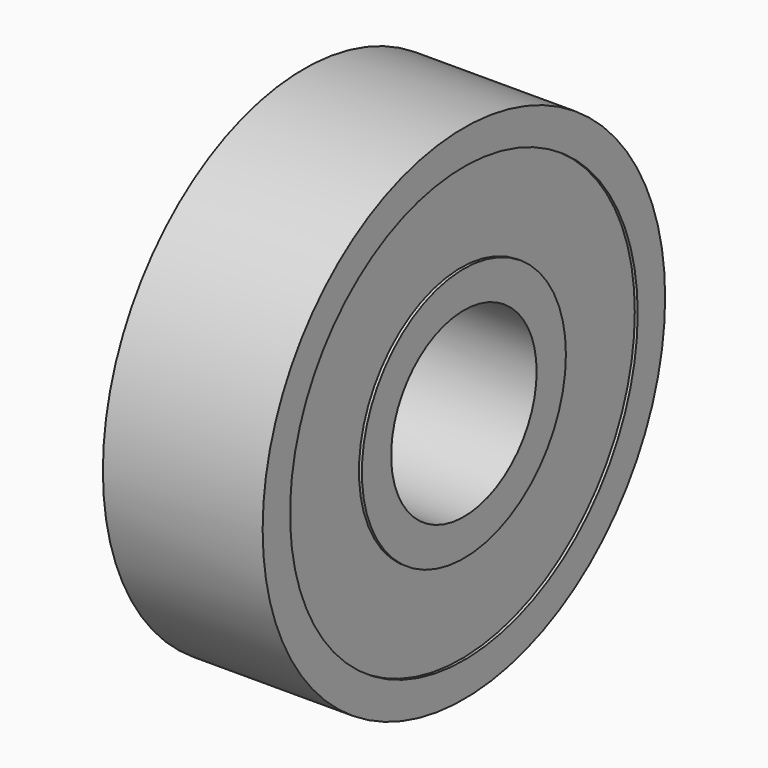
from build123d import *

# Parameters (mm, degrees)
F0_R     = 5.5753
F0_R_2   = 3.9751
F1_DEPTH = 6.985
F0_R_3   = 10.9982
F0_R_4   = 9.4996
F2_START = 0.127
F2_DEPTH = 6.731


with BuildPart() as f1:
    # F0 (on Right) → F1 (new body)
    with BuildSketch(Plane.YZ):
        Circle(F0_R)
        Circle(F0_R_2, mode=Mode.SUBTRACT)
    extrude(amount=F1_DEPTH)


with BuildPart() as f1b:
    # F0 (on Right) → F1, piece 2 (new body)
    with BuildSketch(Plane.YZ):
        Circle(F0_R_3)
        Circle(F0_R_4, mode=Mode.SUBTRACT)
    extrude(amount=F1_DEPTH)


with BuildPart() as f2:
    # F0 (on Right) → F2 (new body)
    with BuildSketch(Plane.YZ.offset(F2_START)):
        Circle(F0_R_4)
        Circle(F0_R, mode=Mode.SUBTRACT)
    extrude(amount=F2_DEPTH)


solid = Compound([f1.part, f1b.part, f2.part])
